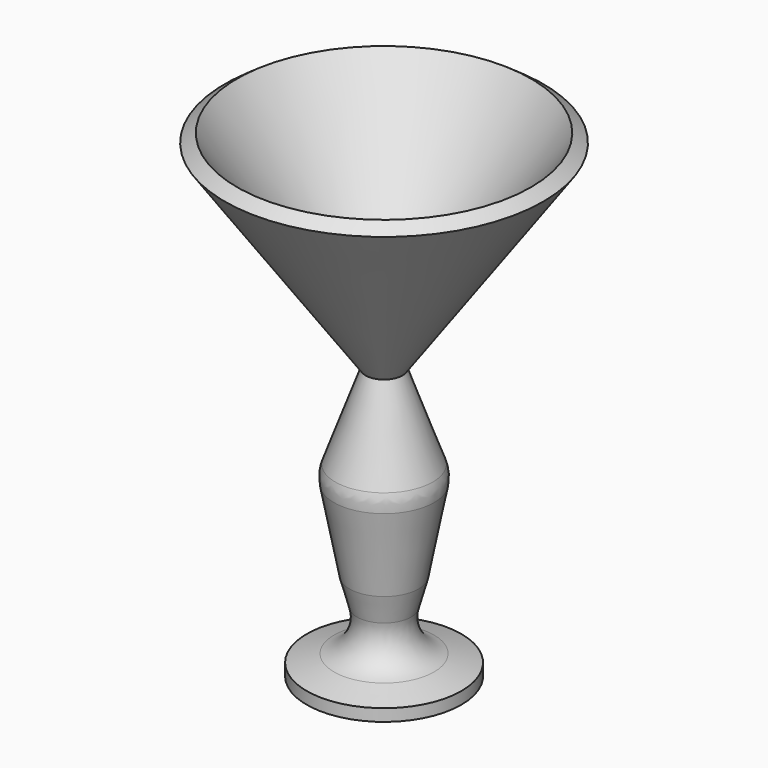
from build123d import *


with BuildPart() as f1:
    # F0 (on Front) → F1 (revolve)
    with BuildSketch(Plane.XZ):
        with BuildLine():
            Line((0, 40.570334), (0, 0))
            Line((0, 0), (11.587135, 0))
            Line((11.587135, 0), (11.587135, 1.81276))
            Line((11.587135, 1.81276), (7.497918, 2.997097))
            ThreePointArc((7.497918, 2.997097), (4.525377, 5.35844), (4.068296, 9.127129))
            Line((4.068296, 9.127129), (5.192726, 13.210593))
            Line((5.192726, 13.210593), (7.514218, 25.355437))
            ThreePointArc((7.514218, 25.355437), (7.587529, 26.688927), (7.305239, 27.994256))
            Line((7.305239, 27.994256), (2.75831, 40.570334))
            Line((2.75831, 40.570334), (23.867019, 70.37863))
            Line((23.867019, 70.37863), (22.029951, 71.679547))
            Line((22.029951, 71.679547), (0, 40.570334))
        make_face()
    revolve(axis=Axis((0, 0, 20.285167), (0, 0, 1)))


solid = f1.part
